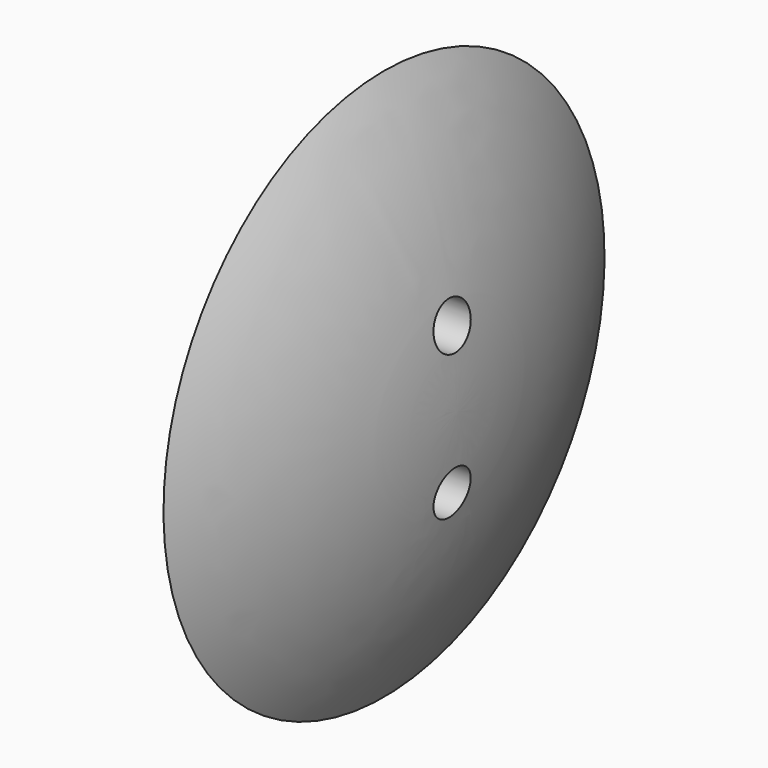
from build123d import *

# Parameters (mm, degrees)
F2_R     = 0.79375
F3_DEPTH = 2.541


with BuildPart() as f1:
    # F0 (on Front) → F1 (revolve)
    with BuildSketch(Plane.XZ):
        with BuildLine():
            Line((0, 0), (2.54, 0))
            ThreePointArc((2.54, 0), (1.894095, 4.928925), (0, 9.525))
            Line((0, 9.525), (0, 0))
        make_face()
    revolve(axis=Axis((1.27, 0, 0), (1, 0, 0)))

    # F2 (on face) → F3 (cut, through all)
    with BuildSketch(Plane(origin=(0, 0, 0), x_dir=(0, -1, 0), z_dir=(-1, 0, 0))):
        with Locations((0, 2.54)):
            Circle(F2_R)
        with Locations((0, -2.54)):
            Circle(F2_R)
    extrude(amount=-F3_DEPTH, mode=Mode.SUBTRACT)


solid = f1.part
